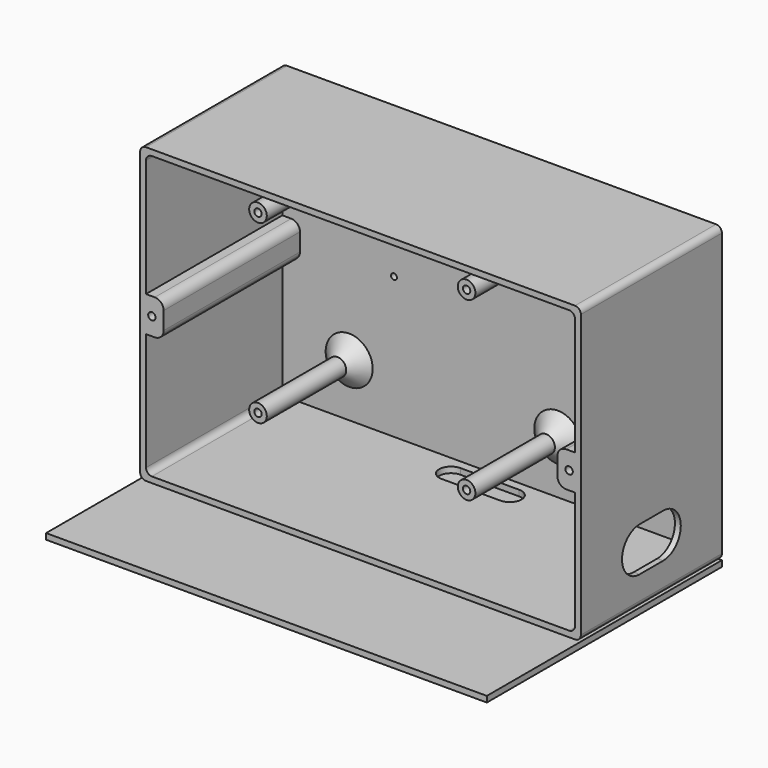
from build123d import *

# Parameters (mm, degrees)
SKETCH_W        = 150
SKETCH_H        = 100
PAD_DEPTH       = 60
POCKET_DEPTH    = 58
SKETCH002_R     = 3
PAD001_DEPTH    = 38.8
SKETCH003_R     = 1.25
HOLE_DEPTH      = 19.248924
HOLE_TIPS_R     = 1.25
SKETCH004_R     = 1.25
HOLE001_DEPTH   = 29.248924
HOLE001_TIPS_R  = 1.25
POCKET001_DEPTH = 2
POCKET002_DEPTH = 2
FILLET002_R     = 2
FILLET_R        = 2
FILLET003_R     = 3
SKETCH007_R     = 1
POCKET003_DEPTH = 40.801
CHAMFER_SIZE    = 5
SKETCH008_W     = 150
SKETCH008_H     = 100
PAD002_DEPTH    = 2


with BuildPart() as box:
    # Sketch → Pad (new body)
    with BuildSketch(Plane.XZ):
        with Locations((75, 50)):
            Rectangle(SKETCH_W, SKETCH_H)
    extrude(amount=PAD_DEPTH)

    # Sketch001 (on Face6 of Pad) → Pocket (cut)
    with BuildSketch(Plane.XZ.offset(60)):
        Polygon((2, 98), (148, 98), (148, 56), (142, 56), (142, 44), (148, 44), (148, 2), (2, 2), (2, 44), (8, 44), (8, 56), (2, 56), align=None)
    extrude(amount=-POCKET_DEPTH, mode=Mode.SUBTRACT)

    # Sketch002 (on Face19 of Pocket) → Pad001 (join)
    with BuildSketch(Plane.XZ.offset(2)):
        with Locations((24.75, 80)):
            Circle(SKETCH002_R)
        with Locations((95.75, 80)):
            Circle(SKETCH002_R)
        with Locations((24.75, 20)):
            Circle(SKETCH002_R)
        with Locations((95.75, 20)):
            Circle(SKETCH002_R)
    extrude(amount=PAD001_DEPTH)

    # Sketch003 (on Face25 of Pad001) → Hole (cut)
    with BuildSketch(Plane.XZ.offset(40.8)):
        with Locations((24.75, 80)):
            Circle(SKETCH003_R)
        with Locations((95.75, 80)):
            Circle(SKETCH003_R)
        with Locations((95.75, 20)):
            Circle(SKETCH003_R)
        with Locations((24.75, 20)):
            Circle(SKETCH003_R)
    extrude(amount=-HOLE_DEPTH, mode=Mode.SUBTRACT)

    # Hole tips → Hole tip 1 section 0
    with BuildSketch(Plane.XZ.offset(21.551076), mode=Mode.PRIVATE) as hole_tip_1_s0:
        with Locations((24.75, 80)):
            Circle(HOLE_TIPS_R)
    loft([hole_tip_1_s0.sketch, Vertex(24.75, -20.8, 80)], mode=Mode.SUBTRACT)

    # Hole tips → Hole tip 2 section 0
    with BuildSketch(Plane.XZ.offset(21.551076), mode=Mode.PRIVATE) as hole_tip_2_s0:
        with Locations((95.75, 80)):
            Circle(HOLE_TIPS_R)
    loft([hole_tip_2_s0.sketch, Vertex(95.75, -20.8, 80)], mode=Mode.SUBTRACT)

    # Hole tips → Hole tip 3 section 0
    with BuildSketch(Plane.XZ.offset(21.551076), mode=Mode.PRIVATE) as hole_tip_3_s0:
        with Locations((95.75, 20)):
            Circle(HOLE_TIPS_R)
    loft([hole_tip_3_s0.sketch, Vertex(95.75, -20.8, 20)], mode=Mode.SUBTRACT)

    # Hole tips → Hole tip 4 section 0
    with BuildSketch(Plane.XZ.offset(21.551076), mode=Mode.PRIVATE) as hole_tip_4_s0:
        with Locations((24.75, 20)):
            Circle(HOLE_TIPS_R)
    loft([hole_tip_4_s0.sketch, Vertex(24.75, -20.8, 20)], mode=Mode.SUBTRACT)

    # Sketch004 (on Face5 of Hole) → Hole001 (cut)
    with BuildSketch(Plane.XZ.offset(60)):
        with Locations((146, 50)):
            Circle(SKETCH004_R)
        with Locations((4, 50)):
            Circle(SKETCH004_R)
    extrude(amount=-HOLE001_DEPTH, mode=Mode.SUBTRACT)

    # Hole001 tips → Hole001 tip 1 section 0
    with BuildSketch(Plane.XZ.offset(30.751076), mode=Mode.PRIVATE) as hole001_tip_1_s0:
        with Locations((146, 50)):
            Circle(HOLE001_TIPS_R)
    loft([hole001_tip_1_s0.sketch, Vertex(146, -30, 50)], mode=Mode.SUBTRACT)

    # Hole001 tips → Hole001 tip 2 section 0
    with BuildSketch(Plane.XZ.offset(30.751076), mode=Mode.PRIVATE) as hole001_tip_2_s0:
        with Locations((4, 50)):
            Circle(HOLE001_TIPS_R)
    loft([hole001_tip_2_s0.sketch, Vertex(4, -30, 50)], mode=Mode.SUBTRACT)

    # Sketch005 (on Face1 of Hole001) → Pocket001 (cut)
    with BuildSketch(Plane(origin=(0, 0, 0), x_dir=(1, 0, 0), z_dir=(0, 0, -1))):
        with BuildLine():
            ThreePointArc((65, 13), (61, 9), (65, 5))
            Line((65, 5), (85, 5))
            ThreePointArc((85, 5), (89, 9), (85, 13))
            Line((65, 13), (85, 13))
        make_face()
    extrude(amount=-POCKET001_DEPTH, mode=Mode.SUBTRACT)

    # Sketch006 (on Face5 of Pocket001) → Pocket002 (cut)
    with BuildSketch(Plane(origin=(150, 0, 0), x_dir=(0, 0, 1), z_dir=(1, 0, 0))):
        with BuildLine():
            ThreePointArc((25, 35), (17.5, 42.5), (10, 35))
            Line((10, 35), (10, 25))
            ThreePointArc((10, 25), (17.5, 17.5), (25, 25))
            Line((25, 35), (25, 25))
        make_face()
    extrude(amount=-POCKET002_DEPTH, mode=Mode.SUBTRACT)

    # Fillet002
    fillet002_edges = [box.edges().sort_by_distance(p)[0] for p in [
        (150, -30, 100),
        (150, -30, 0),
        (0, -30, 100),
        (0, -30, 0),
    ]]
    fillet(fillet002_edges, radius=FILLET002_R)

    # Fillet
    fillet_edges = [box.edges().sort_by_distance(p)[0] for p in [
        (148, -31, 2),
        (148, -31, 98),
        (2, -31, 2),
        (2, -31, 98),
    ]]
    fillet(fillet_edges, radius=FILLET_R)

    # Fillet003
    fillet003_edges = [box.edges().sort_by_distance(p)[0] for p in [
        (8, -31, 44),
        (8, -31, 56),
        (142, -31, 56),
        (142, -31, 44),
    ]]
    fillet(fillet003_edges, radius=FILLET003_R)

    # Sketch007 (on Face38 of Pocket002) → Pocket003 (cut, through all)
    with BuildSketch(Plane.XZ.offset(40.8)):
        with Locations((40, 50)):
            Circle(SKETCH007_R)
        with Locations((110, 50)):
            Circle(SKETCH007_R)
    extrude(amount=-POCKET003_DEPTH, mode=Mode.SUBTRACT)

    # Chamfer
    chamfer_edges = [box.edges().sort_by_distance(p)[0] for p in [
        (21.75, -2, 20),
        (21.75, -2, 80),
        (92.75, -2, 80),
        (92.75, -2, 20),
    ]]
    chamfer(chamfer_edges, length=CHAMFER_SIZE)


with BuildPart() as coperchio:
    # Sketch008 (on ShapeBinder) → Pad002 (new body)
    with BuildSketch(Plane(origin=(0, 0, 0), x_dir=(1, 0, 0), z_dir=(0, 0, -1))):
        with Locations((75, 50)):
            Rectangle(SKETCH008_W, SKETCH008_H)
    extrude(amount=PAD002_DEPTH)


solid = Compound([box.part, coperchio.part])
